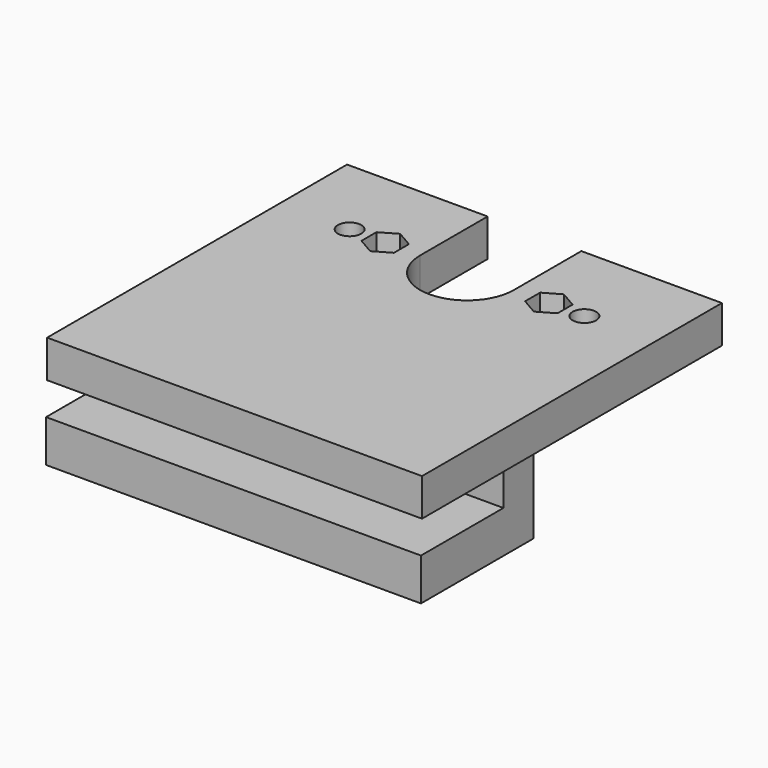
from build123d import *

# Parameters (mm, degrees)
F1_DEPTH  = 8
F2_D      = 5
F3_D      = 5
F5_DEPTH  = 7.5
F7_W      = 80
F7_H      = 8
F8_DEPTH  = 7
F9_W      = 80
F9_H      = 30
F10_DEPTH = 9


with BuildPart() as f1:
    # F0 (on Top) → F1 (new body)
    with BuildSketch(Plane.XY):
        with BuildLine():
            Line((40, -40), (40, 40))
            Line((40, 40), (10, 40))
            Line((10, 40), (10, 22))
            ThreePointArc((10, 22), (0, 12), (-10, 22))
            Line((-10, 22), (-10, 40))
            Line((-10, 40), (-40, 40))
            Line((-40, 40), (-40, -40))
            Line((-40, -40), (40, -40))
        make_face()
    extrude(amount=F1_DEPTH)

    # F2 (through all)
    with Locations(Plane(origin=(0, 0, 0), x_dir=(1, 0, 0), z_dir=(0, 0, -1))):
        with Locations((25.05, -22)):
            Hole(F2_D / 2)

    # F3 (through all)
    with Locations(Plane(origin=(0, 0, 0), x_dir=(1, 0, 0), z_dir=(0, 0, -1))):
        with Locations((-25.05, -22)):
            Hole(F3_D / 2)


with BuildPart() as f5:
    # F4 (on face) → F5 (new body, symmetric)
    with BuildSketch(Plane.XY.offset(8)):
        Polygon((-17.4625, 18), (-13.9983983849, 20), (-13.9983983849, 24), (-17.4625, 26), (-20.9266016151, 24), (-20.9266016151, 20), align=None)
    extrude(amount=F5_DEPTH, both=True)


with BuildPart() as f5b:
    # F4 (on face) → F5, piece 2 (new body, symmetric)
    with BuildSketch(Plane.XY.offset(8)):
        Polygon((17.4625, 18), (20.9266016151, 20), (20.9266016151, 24), (17.4625, 26), (13.9983983849, 24), (13.9983983849, 20), align=None)
    extrude(amount=F5_DEPTH, both=True)


with BuildPart() as f1_1:
    add(f1.part)

    # F6: cut F5, F5b
    add(f5.part, mode=Mode.SUBTRACT)
    add(f5b.part, mode=Mode.SUBTRACT)

    # F7 (on face) → F8 (join)
    with BuildSketch(Plane.XY):
        with Locations((-0.2263514698, -14)):
            Rectangle(F7_W, F7_H)
    extrude(amount=-F8_DEPTH)

    # F9 (on face) → F10 (join)
    with BuildSketch(Plane(origin=(0, 0, -7), x_dir=(1, 0, 0), z_dir=(0, 0, -1))):
        with Locations((-0.2263514698, 25)):
            Rectangle(F9_W, F9_H)
    extrude(amount=F10_DEPTH)


solid = f1_1.part
